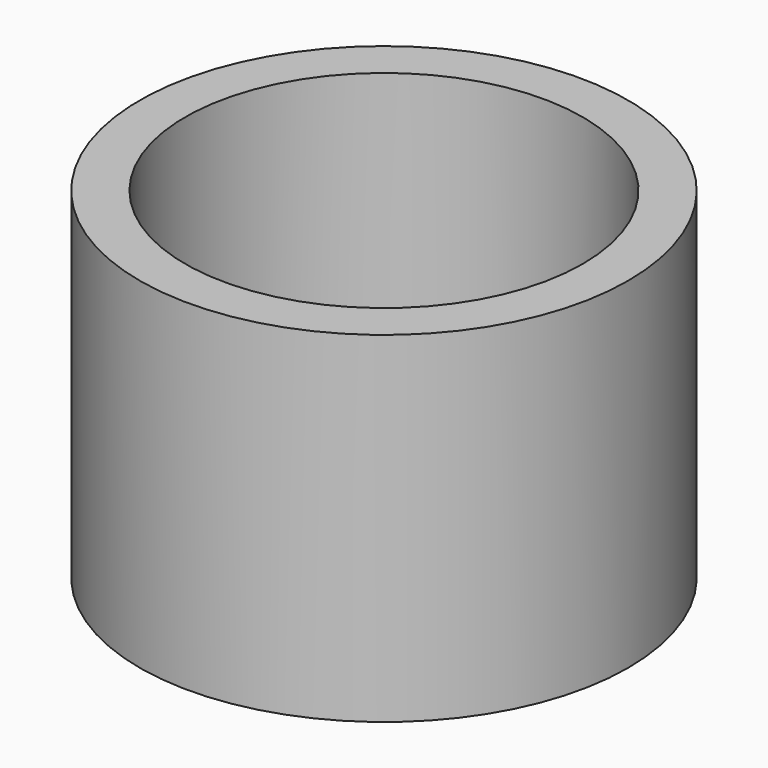
from build123d import *

# Parameters (mm, degrees)
CYLINDER026_R     = 1.6
CYLINDER026_DEPTH = 5
CYLINDER021_R     = 3.5
CYLINDER021_DEPTH = 4
CYLINDER023_R     = 4.3
CYLINDER023_DEPTH = 6


with BuildPart() as cylinder026:
    # Cylinder026 → Cylinder026 (new body)
    with BuildSketch(Plane(origin=(98, 35.5, 22), x_dir=(1, 0, 0), z_dir=(0, 0, 1))):
        Circle(CYLINDER026_R)
    extrude(amount=CYLINDER026_DEPTH)


with BuildPart() as cylinder021:
    # Cylinder021 → Cylinder021 (new body)
    with BuildSketch(Plane(origin=(98, 35.5, 24), x_dir=(1, 0, 0), z_dir=(0, 0, 1))):
        Circle(CYLINDER021_R)
    extrude(amount=CYLINDER021_DEPTH)


with BuildPart() as cut004003004003003004004008:
    # Cylinder023 → Cylinder023 (new body)
    with BuildSketch(Plane(origin=(98, 35.5, 22), x_dir=(1, 0, 0), z_dir=(0, 0, 1))):
        Circle(CYLINDER023_R)
    extrude(amount=CYLINDER023_DEPTH)

    # Cut004003004003003004004007: cut Cylinder021
    add(cylinder021.part, mode=Mode.SUBTRACT)

    # Cut004003004003003004004008: cut Cylinder026
    add(cylinder026.part, mode=Mode.SUBTRACT)


solid = cut004003004003003004004008.part
